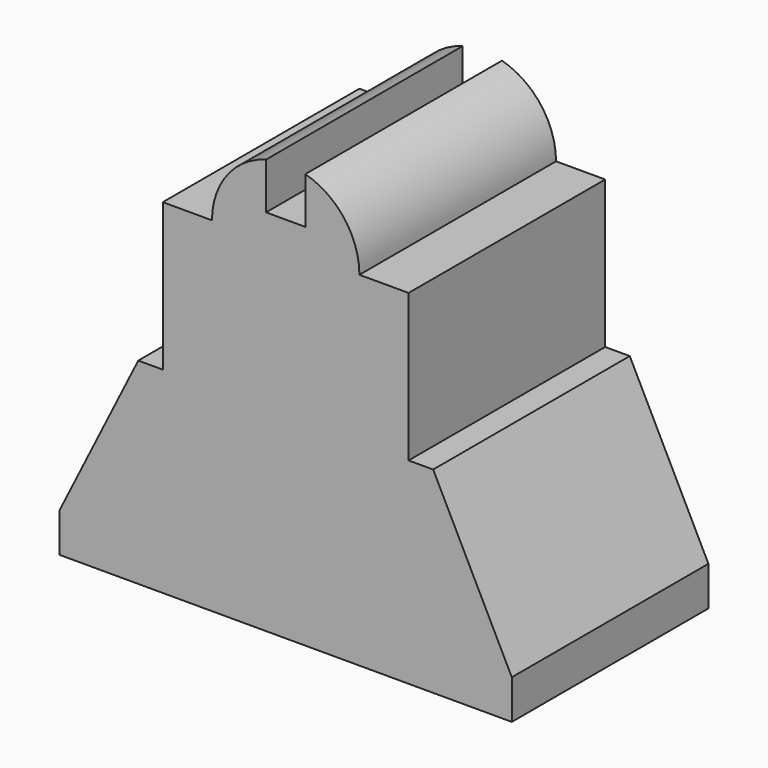
from build123d import *

# Parameters (mm, degrees)
F0_W      = 92
F0_H      = 50
F1_DEPTH  = 40
F2_SIZE2  = 32
F2_SIZE   = 16
F3_SIZE2  = 32
F3_SIZE   = 16
F5_W      = 50
F5_H      = 50
F6_DEPTH  = 30
F8_DEPTH  = 50
F9_W      = 8
F9_H      = 20
F10_DEPTH = 50.001


with BuildPart() as f1:
    # F0 (on Top) → F1 (new body)
    with BuildSketch(Plane.XY):
        Rectangle(F0_W, F0_H)
    extrude(amount=F1_DEPTH)

    # F2
    f2_edges = [f1.edges().sort_by_distance(p)[0] for p in [
        (46, 0, 40),
    ]]
    f2_side = f1.faces().sort_by_distance((0, 0, 40))[0]
    chamfer(f2_edges, length=F2_SIZE, length2=F2_SIZE2, reference=f2_side)

    # F3
    f3_edges = [f1.edges().sort_by_distance(p)[0] for p in [
        (-46, 0, 40),
    ]]
    f3_side = f1.faces().sort_by_distance((-8, 0, 40))[0]
    chamfer(f3_edges, length=F3_SIZE, length2=F3_SIZE2, reference=f3_side)

    # F5 (on face) → F6 (join)
    with BuildSketch(Plane.XY.offset(40)):
        Rectangle(F5_W, F5_H)
    extrude(amount=F6_DEPTH)

    # F7 (on face) → F8 (join)
    with BuildSketch(Plane.XZ.offset(25)):
        with BuildLine():
            Line((-15, 70), (15, 70))
            ThreePointArc((15, 70), (0, 85), (-15, 70))
        make_face()
    extrude(amount=-F8_DEPTH)

    # F9 (on face) → F10 (cut, through all)
    with BuildSketch(Plane.XZ.offset(25)):
        with Locations((0, 85)):
            Rectangle(F9_W, F9_H)
    extrude(amount=-F10_DEPTH, mode=Mode.SUBTRACT)


solid = f1.part
